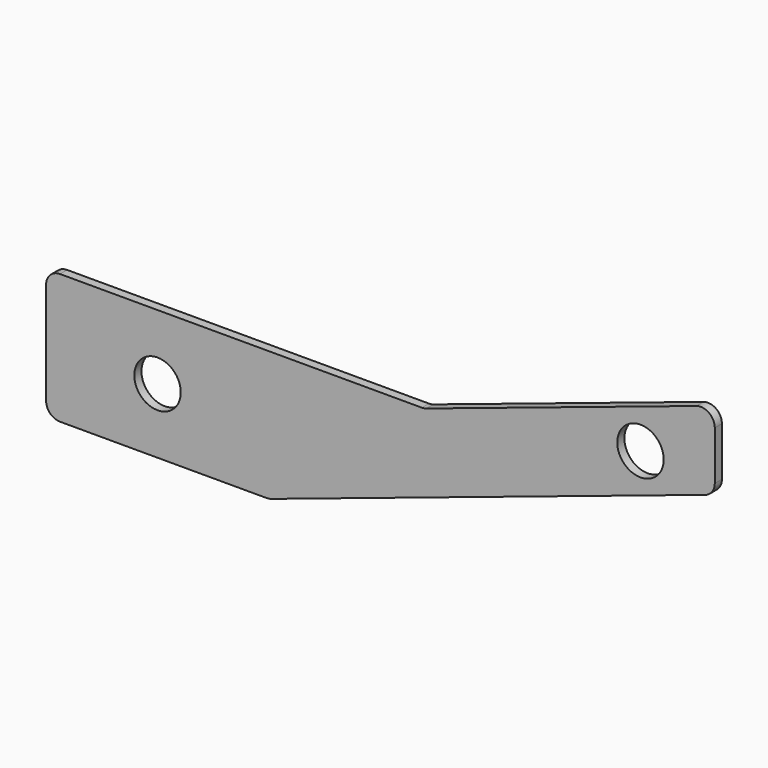
from build123d import *

# Parameters (mm, degrees)
F0_R     = 15.875
F1_DEPTH = 6.096
F2_R     = 9.525


with BuildPart() as f1:
    # F0 (on Front) → F1 (new body)
    with BuildSketch(Plane.XZ):
        Polygon((0, 88.9), (0, 0), (152.4, 0), (457.2, 101.6), (457.2, 155.147902), (258.456295, 88.9), (152.4, 88.9), align=None)
        with Locations((76.2, 44.45)):
            Circle(F0_R, mode=Mode.SUBTRACT)
        with Locations((406.4, 111.440618)):
            Circle(F0_R, mode=Mode.SUBTRACT)
    extrude(amount=F1_DEPTH)

    # F2
    f2_edges = [f1.edges().sort_by_distance(p)[0] for p in [
        (457.2, -3.048, 101.6),
        (457.2, -3.048, 155.147902),
        (258.456295, -3.048, 88.9),
        (0, -3.048, 88.9),
        (0, -3.048, 0),
        (152.4, -3.048, 0),
    ]]
    fillet(f2_edges, radius=F2_R)


solid = f1.part
